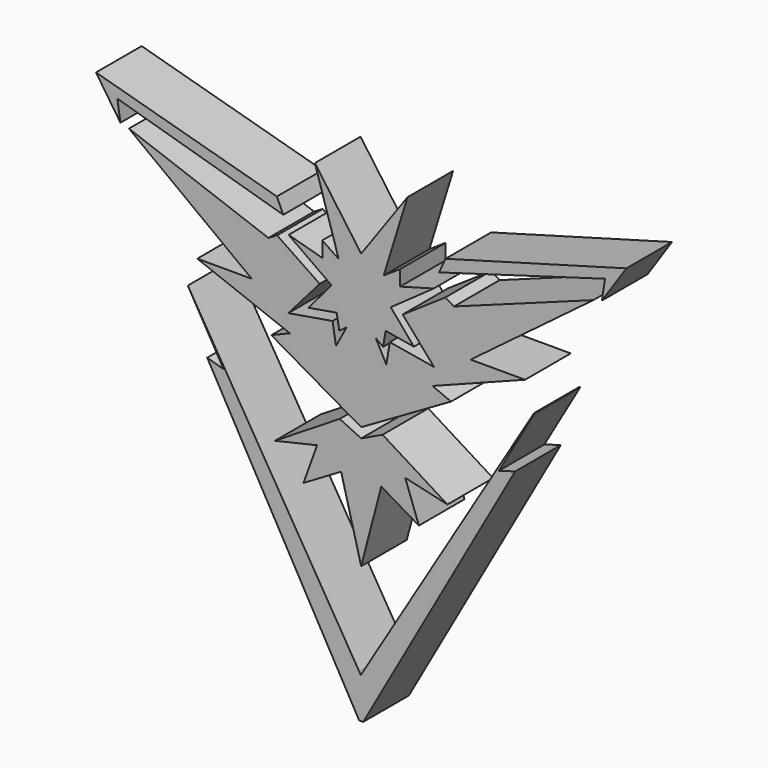
from build123d import *

# Parameters (mm, degrees)
F1_DEPTH = 7.62


with BuildPart() as f1:
    # F0 (on Front) → F1 (new body)
    with BuildSketch(Plane.XZ):
        Polygon((11.912923, 36.592964), (34.061461, 43.045655), (33.65382, 40.3485), (36.914954, 45.196552), (12.762178, 38.47073), align=None)
        Polygon((1.236591, -13.770605), (-21.643782, 24.131477), (-16.862076, 15.858224), (-19.05307, 16.496541), (1.235774, -19.546427), (1.778122, -19.546427), (22.066965, 16.496541), (19.875971, 15.858224), (24.657678, 24.131477), (24.588542, 24.177603), (1.708169, -13.72448), (1.469709, -14.156773), align=None)
        Polygon((1.506948, 13.69445), (-1.354584, 15.056329), (-10.010078, 9.669344), (-4.38098, 10.970694), (-6.196818, 5.946876), (-1.173, 8.912745), (1.506948, -1.332655), (4.186896, 8.912745), (9.210713, 5.946876), (7.394876, 10.970694), (13.023973, 9.669344), (4.36848, 15.056329), align=None)
        Polygon((-9.748282, 38.47073), (-33.901058, 45.196552), (-30.639924, 40.3485), (-31.047566, 43.045655), (-8.899027, 36.592964), align=None)
        Polygon((7.687479, 44.054367), (1.506948, 35.408828), (-4.673583, 44.054367), (-1.506405, 33.825237), (-3.68919, 35.280429), (-3.68919, 33.226043), (-8.183159, 34.467235), (-2.447998, 30.401262), (-5.529577, 26.763286), (-1.763203, 27.405282), (-1.421541, 25.400866), (-0.436412, 26.12129), (-1.848803, 23.467708), (-2.319599, 26.24969), (-8.223467, 25.250575), (-4.031587, 30.058865), (-9.723948, 33.910837), (-10.879541, 33.226043), (-29.497413, 40.031195), (-13.105125, 27.70488), (-20.381076, 27.70488), (-8.011959, 22.95411), (-10.494343, 21.926919), (1.506948, 15.011366), (13.508239, 21.926919), (11.025855, 22.95411), (23.394972, 27.70488), (16.119021, 27.70488), (32.511309, 40.031195), (13.893436, 33.226043), (12.737844, 33.910837), (7.045483, 30.058865), (11.237363, 25.250575), (5.333495, 26.24969), (4.862698, 23.467708), (3.450308, 26.12129), (4.435437, 25.400866), (4.777099, 27.405282), (8.543473, 26.763286), (5.461894, 30.401262), (11.197055, 34.467235), (6.703085, 33.226043), (6.703085, 35.280429), (4.5203, 33.825237), align=None)
    extrude(amount=F1_DEPTH)


solid = f1.part
